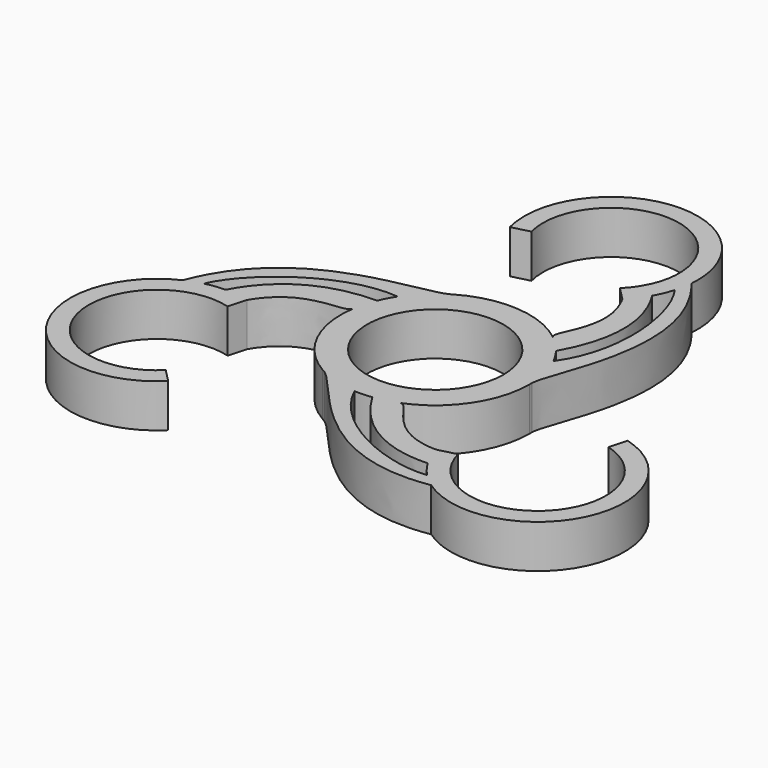
from build123d import *

# Parameters (mm, degrees)
F0_R     = 11
F1_DEPTH = 7
F2_D     = 22


with BuildPart() as f1:
    # F0 (on Top) → F1 (new body)
    with BuildSketch(Plane.XY):
        with BuildLine():
            Line((0, 49.5046585807), (0, 48.5046585807))
            Line((0, 48.5046585807), (0, 46.5046585807))
            ThreePointArc((0, 46.5046585807), (10.1813410196, 39.6688265699), (7.7085117019, 27.6574394974))
            Line((7.7085117019, 27.6574394974), (9.8108330751, 25.5172888383))
            ThreePointArc((9.8108330751, 25.5172888383), (11.0983257909, 26.9707752537), (12.1723308709, 28.588419634))
            ThreePointArc((12.1723308709, 28.588419634), (12.8897911228, 30.0408426238), (13.4346674784, 31.566421698))
            ThreePointArc((13.4346674784, 31.566421698), (13.7598632413, 32.9227671072), (13.9484835753, 34.3047394379))
            ThreePointArc((13.9484835753, 34.3047394379), (10.3150101309, 44.970416131), (0, 49.5046585807))
        make_face()
        with BuildLine():
            Line((0, 46.5046585807), (0, 48.5046585807))
            Line((0, 48.5046585807), (0, 49.5046585807))
            ThreePointArc((0, 49.5046585807), (-11.068840076, 44.0767516373), (-13.5547324515, 32.0019127766))
            Line((-13.5547324515, 32.0019127766), (-10.6501469262, 32.7525011632))
            ThreePointArc((-10.6501469262, 32.7525011632), (-8.696945774, 42.2398745538), (0, 46.5046585807))
        make_face()
        with BuildLine():
            ThreePointArc((7.7085117019, 27.6574394974), (10.1813410196, 39.6688265699), (0, 46.5046585807))
            Line((0, 46.5046585807), (0, 39.5046585807))
            ThreePointArc((0, 39.5046585807), (2.8284271247, 38.3330857055), (4, 35.5046585807))
            ThreePointArc((4, 35.5046585807), (3.6886569817, 33.9574644522), (2.8030951643, 32.6511243686))
            Line((2.8030951643, 32.6511243686), (7.7085117019, 27.6574394974))
        make_face()
        with BuildLine():
            Line((0, 39.5046585807), (0, 46.5046585807))
            ThreePointArc((0, 46.5046585807), (-8.696945774, 42.2398745538), (-10.6501469262, 32.7525011632))
            Line((-10.6501469262, 32.7525011632), (-3.8727807004, 34.5038740653))
            ThreePointArc((-3.8727807004, 34.5038740653), (-3.162525736, 37.9538280255), (0, 39.5046585807))
        make_face()
        with BuildLine():
            ThreePointArc((4, 35.5046585807), (2.8284271247, 38.3330857055), (0, 39.5046585807))
            Line((0, 39.5046585807), (0, 35.5046585807))
            Line((0, 35.5046585807), (2.8030951643, 32.6511243686))
            ThreePointArc((2.8030951643, 32.6511243686), (3.6886569817, 33.9574644522), (4, 35.5046585807))
        make_face()
        with BuildLine():
            Line((0, 35.5046585807), (0, 39.5046585807))
            ThreePointArc((0, 39.5046585807), (-3.162525736, 37.9538280255), (-3.8727807004, 34.5038740653))
            Line((-3.8727807004, 34.5038740653), (0, 35.5046585807))
        make_face()
        with BuildLine():
            add(Edge.make_bspline(
                [(15.2299184457, 0.5132023359), (15.5574350677, 5.1525312386), (25.2311147708, 20.5664775316), (13.9484835753, 34.3047394379)],
                knots=[1.3457221099, 1.3457221099, 1.3457221099, 1.3457221099, 34.3289885081, 34.3289885081, 34.3289885081, 34.3289885081], degree=3))
            ThreePointArc((13.9484835753, 34.3047394379), (13.7598632413, 32.9227671072), (13.4346674784, 31.566421698))
            add(Edge.make_bspline(
                [(13.4346674784, 31.566421698), (17.1492826194, 26.552028954), (18.9610160887, 14.381878078), (13.6060726459, 6.8621118948)],
                knots=[0, 0, 0, 0, 24.7049044237, 24.7049044237, 24.7049044237, 24.7049044237], degree=3))
            ThreePointArc((13.6060726459, 6.8621118948), (14.7633247849, 3.7759811699), (15.2299184457, 0.5132023359))
        make_face()
        with BuildLine():
            Line((2.8030951643, 32.6511243686), (0, 35.5046585807))
            Line((0, 35.5046585807), (-3.8727807004, 34.5038740653))
            ThreePointArc((-3.8727807004, 34.5038740653), (-1.0696855361, 31.6503398532), (2.8030951643, 32.6511243686))
        make_face()
        with BuildLine():
            ThreePointArc((12.1723308709, 28.588419634), (11.0983257909, 26.9707752537), (9.8108330751, 25.5172888383))
            add(Edge.make_bspline(
                [(9.4517272848, 11.9531855099), (8.1816991863, 13.0922129173), (14.0057700702, 18.2080167226), (9.8108330751, 25.5172888383)],
                knots=[0.1803540845, 0.1803540845, 0.1803540845, 0.1803540845, 13.6112300964, 13.6112300964, 13.6112300964, 13.6112300964], degree=3))
            ThreePointArc((9.4517272848, 11.9531855099), (9.4792735432, 11.9313522115), (9.5067693672, 11.9094554326))
            ThreePointArc((9.5067693672, 11.9094554326), (10.8973285777, 10.6518553487), (12.122925882, 9.2330092906))
            add(Edge.make_bspline(
                [(12.122925882, 9.2330092906), (15.8085282892, 15.7495811582), (16.0773210227, 22.4694218487), (12.1723308709, 28.588419634)],
                knots=[0, 0, 0, 0, 19.3554733968, 19.3554733968, 19.3554733968, 19.3554733968], degree=3))
        make_face()
        with BuildLine():
            add(Edge.make_bspline(
                [(15.2385626783, 0), (15.2187511021, 0.1525677237), (15.2165557195, 0.3239170357), (15.2299184457, 0.5132023359)],
                knots=[0, 0, 0, 0, 1.3457221099, 1.3457221099, 1.3457221099, 1.3457221099], degree=3))
            ThreePointArc((15.2299184457, 0.5132023359), (14.7633247849, 3.7759811699), (13.6060726459, 6.8621118948))
            ThreePointArc((13.6060726459, 6.8621118948), (12.9190026677, 8.0816559302), (12.122925882, 9.2330092906))
            ThreePointArc((12.122925882, 9.2330092906), (10.8973285777, 10.6518553487), (9.5067693672, 11.9094554326))
            add(Edge.make_bspline(
                [(9.5067693672, 11.9094554326), (9.4871151753, 11.923312155), (9.468781627, 11.9378902868), (9.4517272848, 11.9531855099)],
                knots=[0, 0, 0, 0, 0.1803540845, 0.1803540845, 0.1803540845, 0.1803540845], degree=3))
            ThreePointArc((9.4517272848, 11.9531855099), (1.1073491815, 15.1982752407), (-7.6192813392, 13.1969823966))
            add(Edge.make_bspline(
                [(-7.6192813392, 13.1969823966), (-7.7415030756, 13.1035412064), (-7.8887982414, 13.0159652933), (-8.059405483, 12.9328951036)],
                knots=[0, 0, 0, 0, 1.3457221099, 1.3457221099, 1.3457221099, 1.3457221099], degree=3))
            ThreePointArc((-8.059405483, 12.9328951036), (-10.6517580098, 10.8974237231), (-12.7457995474, 8.3521486097))
            ThreePointArc((-12.7457995474, 8.3521486097), (-13.458420674, 7.1473565367), (-14.05748354, 5.8822571367))
            ThreePointArc((-14.05748354, 5.8822571367), (-14.6734416183, 4.1114357074), (-15.0672756334, 2.2783760636))
            add(Edge.make_bspline(
                [(-15.0672756334, 2.2783760636), (-15.0694488111, 2.2544266729), (-15.0729070695, 2.2312602885), (-15.0776259502, 2.2088431833)],
                knots=[0, 0, 0, 0, 0.1803540845, 0.1803540845, 0.1803540845, 0.1803540845], degree=3))
            ThreePointArc((-15.0776259502, 2.2088431833), (-13.7157670429, -6.6401450983), (-7.6192813392, -13.1969823966))
            add(Edge.make_bspline(
                [(-7.6192813392, -13.1969823966), (-7.4772480265, -13.2561089301), (-7.3277574781, -13.339882329), (-7.1705129627, -13.4460974395)],
                knots=[0, 0, 0, 0, 1.3457221099, 1.3457221099, 1.3457221099, 1.3457221099], degree=3))
            ThreePointArc((-7.1705129627, -13.4460974395), (-4.1115667751, -14.673404893), (-0.8602730984, -15.2142605045))
            ThreePointArc((-0.8602730984, -15.2142605045), (0.5394180063, -15.2290124669), (1.934557658, -15.1152664273))
            ThreePointArc((1.934557658, -15.1152664273), (3.7761130406, -14.7632910561), (5.5605062662, -14.1878314962))
            add(Edge.make_bspline(
                [(5.5605062662, -14.1878314962), (5.5823336358, -14.1777388279), (5.6041254425, -14.1691505753), (5.6258986653, -14.1620286933)],
                knots=[0, 0, 0, 0, 0.1803540845, 0.1803540845, 0.1803540845, 0.1803540845], degree=3))
            ThreePointArc((5.6258986653, -14.1620286933), (12.6084178614, -8.5581301424), (15.2385626783, 0))
        make_face()
        Circle(F0_R, mode=Mode.SUBTRACT)
        with BuildLine():
            ThreePointArc((15.2385626783, 0), (15.2364014669, 0.2566375656), (15.2299184457, 0.5132023359))
            add(Edge.make_bspline(
                [(15.2385626783, 0), (15.2187511021, 0.1525677237), (15.2165557195, 0.3239170357), (15.2299184457, 0.5132023359)],
                knots=[0, 0, 0, 0, 1.3457221099, 1.3457221099, 1.3457221099, 1.3457221099], degree=3))
        make_face()
        with BuildLine():
            ThreePointArc((9.5067693672, 11.9094554326), (9.4792735432, 11.9313522115), (9.4517272848, 11.9531855099))
            add(Edge.make_bspline(
                [(9.5067693672, 11.9094554326), (9.4871151753, 11.923312155), (9.468781627, 11.9378902868), (9.4517272848, 11.9531855099)],
                knots=[0, 0, 0, 0, 0.1803540845, 0.1803540845, 0.1803540845, 0.1803540845], degree=3))
        make_face()
        with BuildLine():
            add(Edge.make_bspline(
                [(-7.6192813392, 13.1969823966), (-7.7415030756, 13.1035412064), (-7.8887982414, 13.0159652933), (-8.059405483, 12.9328951036)],
                knots=[0, 0, 0, 0, 1.3457221099, 1.3457221099, 1.3457221099, 1.3457221099], degree=3))
            ThreePointArc((-7.6192813392, 13.1969823966), (-7.8404553848, 13.0667919498), (-8.059405483, 12.9328951036))
        make_face()
        with BuildLine():
            add(Edge.make_bspline(
                [(5.6258986653, -14.1620286933), (7.247339385, -13.6316658001), (8.7657199992, -21.2333610417), (17.1932038321, -21.2550750945)],
                knots=[0.1803540845, 0.1803540845, 0.1803540845, 0.1803540845, 13.6112300964, 13.6112300964, 13.6112300964, 13.6112300964], degree=3))
            ThreePointArc((5.6258986653, -14.1620286933), (5.5932173451, -14.1749678036), (5.5605062662, -14.1878314962))
            ThreePointArc((5.5605062662, -14.1878314962), (3.7761130406, -14.7632910561), (1.934557658, -15.1152664273))
            add(Edge.make_bspline(
                [(1.934557658, -15.1152664273), (5.7352732373, -21.565377674), (11.4204296179, -25.1580793548), (18.6721322216, -24.8357575745)],
                knots=[0, 0, 0, 0, 19.3554733968, 19.3554733968, 19.3554733968, 19.3554733968], degree=3))
            ThreePointArc((18.6721322216, -24.8357575745), (17.808213634, -23.0968197012), (17.1932038321, -21.2550750945))
        make_face()
        with BuildLine():
            ThreePointArc((5.5605062662, -14.1878314962), (5.5932173451, -14.1749678036), (5.6258986653, -14.1620286933))
            add(Edge.make_bspline(
                [(5.5605062662, -14.1878314962), (5.5823336358, -14.1777388279), (5.6041254425, -14.1691505753), (5.6258986653, -14.1620286933)],
                knots=[0, 0, 0, 0, 0.1803540845, 0.1803540845, 0.1803540845, 0.1803540845], degree=3))
        make_face()
        with BuildLine():
            ThreePointArc((-12.7457995474, 8.3521486097), (-10.6517580098, 10.8974237231), (-8.059405483, 12.9328951036))
            add(Edge.make_bspline(
                [(-8.059405483, 12.9328951036), (-12.2409404802, 10.896868367), (-30.4266493942, 11.5675475915), (-36.683017611, -5.0726285984)],
                knots=[1.3457221099, 1.3457221099, 1.3457221099, 1.3457221099, 34.3289885081, 34.3289885081, 34.3289885081, 34.3289885081], degree=3))
            ThreePointArc((-36.683017611, -5.0726285984), (-35.3918842983, -4.544992434), (-34.0546568363, -4.1484475213))
            add(Edge.make_bspline(
                [(-34.0546568363, -4.1484475213), (-31.5693729059, 1.575699928), (-21.935579814, 9.2297825754), (-12.7457995474, 8.3521486097)],
                knots=[0, 0, 0, 0, 24.7049044237, 24.7049044237, 24.7049044237, 24.7049044237], degree=3))
        make_face()
        with BuildLine():
            Line((20.0977893574, -20.5044867079), (17.1932038321, -21.2550750945))
            ThreePointArc((17.1932038321, -21.2550750945), (17.808213634, -23.0968197012), (18.6721322216, -24.8357575745))
            ThreePointArc((18.6721322216, -24.8357575745), (19.5712373019, -26.1833078737), (20.6199893579, -27.4179741767))
            ThreePointArc((20.6199893579, -27.4179741767), (21.6320210571, -28.3777746731), (22.7345340357, -29.2321108394))
            ThreePointArc((22.7345340357, -29.2321108394), (43.4140763402, -23.7162957613), (34.49183566, -4.2622137438))
            Line((34.49183566, -4.2622137438), (33.6895715079, -7.1529527895))
            ThreePointArc((33.6895715079, -7.1529527895), (38.4564479855, -25.5995483737), (20.0977893574, -20.5044867079))
        make_face()
        with BuildLine():
            ThreePointArc((-34.0546568363, -4.1484475213), (-35.3918842983, -4.544992434), (-36.683017611, -5.0726285984))
            ThreePointArc((-36.683017611, -5.0726285984), (-42.2459527831, -25.7395451118), (-20.9371032085, -27.7396990328))
            Line((-20.9371032085, -27.7396990328), (-23.0394245817, -25.5995483737))
            ThreePointArc((-23.0394245817, -25.5995483737), (-41.3980832098, -20.5044867079), (-27.8063010593, -7.1529527895))
            Line((-27.8063010593, -7.1529527895), (-27.0040369072, -4.2622137438))
            ThreePointArc((-27.0040369072, -4.2622137438), (-28.9065394249, -3.8739555525), (-30.8444630925, -3.7526620595))
            ThreePointArc((-30.8444630925, -3.7526620595), (-32.4610284247, -3.8575347501), (-34.0546568363, -4.1484475213))
        make_face()
        with BuildLine():
            Line((26.8751555832, -18.7531138058), (20.0977893574, -20.5044867079))
            ThreePointArc((20.0977893574, -20.5044867079), (38.4564479855, -25.5995483737), (33.6895715079, -7.1529527895))
            Line((33.6895715079, -7.1529527895), (31.8176218197, -13.8980105628))
            ThreePointArc((31.8176218197, -13.8980105628), (33.9321741944, -15.3314557026), (34.7479362836, -17.7523292904))
            ThreePointArc((34.7479362836, -17.7523292904), (31.2523553546, -21.7203970066), (26.8751555832, -18.7531138058))
        make_face()
        with BuildLine():
            ThreePointArc((-15.0672756334, 2.2783760636), (-14.6734416183, 4.1114357074), (-14.05748354, 5.8822571367))
            add(Edge.make_bspline(
                [(-14.05748354, 5.8822571367), (-21.5438015265, 5.8157965158), (-27.4977506407, 2.6886575062), (-30.8444630925, -3.7526620595)],
                knots=[0, 0, 0, 0, 19.3554733968, 19.3554733968, 19.3554733968, 19.3554733968], degree=3))
            ThreePointArc((-30.8444630925, -3.7526620595), (-28.9065394249, -3.8739555525), (-27.0040369072, -4.2622137438))
            add(Edge.make_bspline(
                [(-15.0776259502, 2.2088431833), (-15.4290385713, 0.5394528828), (-22.7714900694, 3.025344319), (-27.0040369072, -4.2622137438)],
                knots=[0.1803540845, 0.1803540845, 0.1803540845, 0.1803540845, 13.6112300964, 13.6112300964, 13.6112300964, 13.6112300964], degree=3))
            ThreePointArc((-15.0776259502, 2.2088431833), (-15.0724908883, 2.243615592), (-15.0672756334, 2.2783760636))
        make_face()
        with BuildLine():
            add(Edge.make_bspline(
                [(20.6199893579, -27.4179741767), (14.4200902865, -28.1277288821), (2.9745637253, -23.6116606534), (-0.8602730984, -15.2142605045)],
                knots=[0, 0, 0, 0, 24.7049044237, 24.7049044237, 24.7049044237, 24.7049044237], degree=3))
            ThreePointArc((-0.8602730984, -15.2142605045), (-4.1115667751, -14.673404893), (-7.1705129627, -13.4460974395))
            add(Edge.make_bspline(
                [(-7.1705129627, -13.4460974395), (-3.3164945874, -16.0493996056), (5.1955346233, -32.1340251231), (22.7345340357, -29.2321108394)],
                knots=[1.3457221099, 1.3457221099, 1.3457221099, 1.3457221099, 34.3289885081, 34.3289885081, 34.3289885081, 34.3289885081], degree=3))
            ThreePointArc((22.7345340357, -29.2321108394), (21.6320210571, -28.3777746731), (20.6199893579, -27.4179741767))
        make_face()
        with BuildLine():
            Line((30.7479362836, -17.7523292904), (26.8751555832, -18.7531138058))
            ThreePointArc((26.8751555832, -18.7531138058), (31.2523553546, -21.7203970066), (34.7479362836, -17.7523292904))
            ThreePointArc((34.7479362836, -17.7523292904), (33.9321741944, -15.3314557026), (31.8176218197, -13.8980105628))
            Line((31.8176218197, -13.8980105628), (30.7479362836, -17.7523292904))
        make_face()
        with BuildLine():
            ThreePointArc((31.8176218197, -13.8980105628), (27.9448411193, -14.8987950782), (26.8751555832, -18.7531138058))
            Line((26.8751555832, -18.7531138058), (30.7479362836, -17.7523292904))
            Line((30.7479362836, -17.7523292904), (31.8176218197, -13.8980105628))
        make_face()
        with BuildLine():
            add(Edge.make_bspline(
                [(-15.0672756334, 2.2783760636), (-15.0694488111, 2.2544266729), (-15.0729070695, 2.2312602885), (-15.0776259502, 2.2088431833)],
                knots=[0, 0, 0, 0, 0.1803540845, 0.1803540845, 0.1803540845, 0.1803540845], degree=3))
            ThreePointArc((-15.0672756334, 2.2783760636), (-15.0724908883, 2.243615592), (-15.0776259502, 2.2088431833))
        make_face()
        with BuildLine():
            ThreePointArc((-27.8063010593, -7.1529527895), (-41.3980832098, -20.5044867079), (-23.0394245817, -25.5995483737))
            Line((-23.0394245817, -25.5995483737), (-27.9448411193, -20.6058635025))
            ThreePointArc((-27.9448411193, -20.6058635025), (-34.620716984, -18.7531138058), (-29.6782507475, -13.8980105628))
            Line((-29.6782507475, -13.8980105628), (-27.8063010593, -7.1529527895))
        make_face()
        with BuildLine():
            ThreePointArc((-7.6192813392, -13.1969823966), (-7.3959460821, -13.3234295154), (-7.1705129627, -13.4460974395))
            add(Edge.make_bspline(
                [(-7.6192813392, -13.1969823966), (-7.4772480265, -13.2561089301), (-7.3277574781, -13.339882329), (-7.1705129627, -13.4460974395)],
                knots=[0, 0, 0, 0, 1.3457221099, 1.3457221099, 1.3457221099, 1.3457221099], degree=3))
        make_face()
        with BuildLine():
            Line((-30.7479362836, -17.7523292904), (-27.9448411193, -20.6058635025))
            ThreePointArc((-27.9448411193, -20.6058635025), (-27.0592793019, -19.2995234189), (-26.7479362836, -17.7523292904))
            ThreePointArc((-26.7479362836, -17.7523292904), (-27.5636983729, -15.3314557026), (-29.6782507475, -13.8980105628))
            Line((-29.6782507475, -13.8980105628), (-30.7479362836, -17.7523292904))
        make_face()
        with BuildLine():
            ThreePointArc((-29.6782507475, -13.8980105628), (-34.620716984, -18.7531138058), (-27.9448411193, -20.6058635025))
            Line((-27.9448411193, -20.6058635025), (-30.7479362836, -17.7523292904))
            Line((-30.7479362836, -17.7523292904), (-29.6782507475, -13.8980105628))
        make_face()
    extrude(amount=F1_DEPTH)

    # F2 (through all)
    with Locations(Plane(origin=(0, 0, 0), x_dir=(1, 0, 0), z_dir=(0, 0, -1))):
        with Locations((0, -35.5046585807), (30.7479362836, 17.7523292904), (-30.7479362836, 17.7523292904)):
            Hole(F2_D / 2)


solid = f1.part
